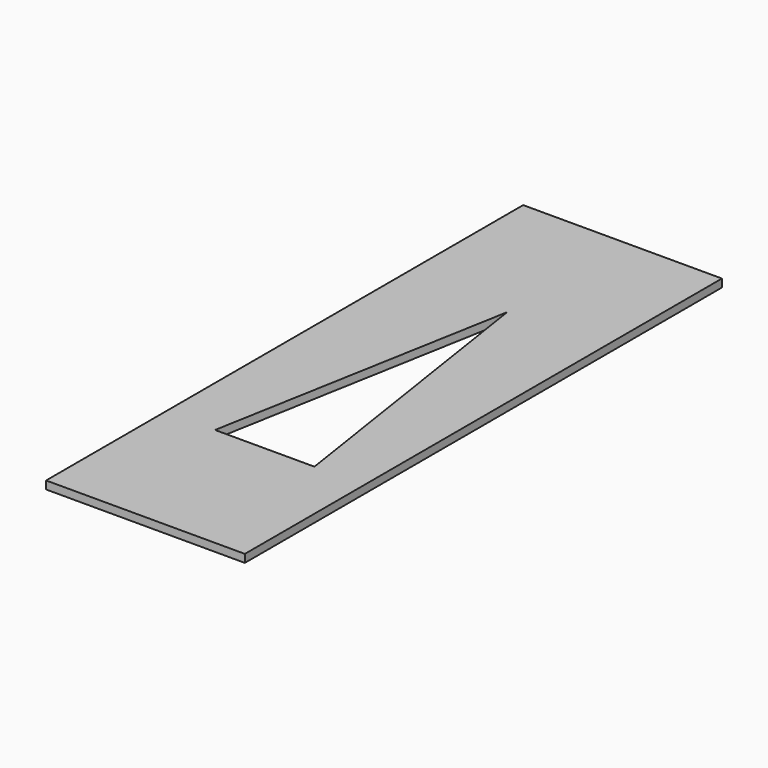
from build123d import *

# Parameters (mm, degrees)
PAD001_DEPTH      = 2
PAD001_DEPTH_BACK = 2
SKETCH018_W       = 25
SKETCH018_H       = 75
PAD017_DEPTH      = 1


with BuildPart() as body001:
    # Sketch002 → Pad001 (new body, two sides)
    with BuildSketch(Plane.XY) as pad001_sk:
        Polygon((13, 56.25), (6.25, 18.75), (18.75, 18.75), align=None)
    extrude(amount=PAD001_DEPTH)
    extrude(pad001_sk.sketch, amount=-PAD001_DEPTH_BACK)


with BuildPart() as body016:
    # Sketch018 → Pad017 (new body)
    with BuildSketch(Plane.XY):
        with Locations((12.5, 37.5)):
            Rectangle(SKETCH018_W, SKETCH018_H)
    extrude(amount=PAD017_DEPTH)

    # Boolean001: cut Body001
    add(body001.part, mode=Mode.SUBTRACT)


solid = body016.part
